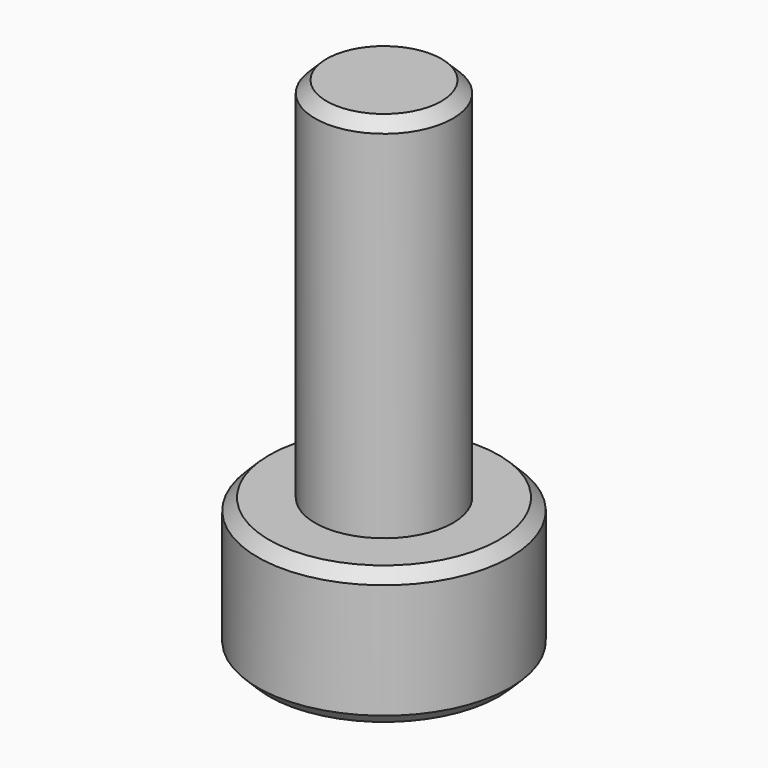
from build123d import *

# Parameters (mm, degrees)
F0_R     = 1.5
F1_DEPTH = 8
F2_R     = 2.75
F3_DEPTH = 3
F5_DEPTH = 1.3
F6_SIZE  = 0.25


with BuildPart() as f1:
    # F0 (on Top) → F1 (new body)
    with BuildSketch(Plane.XY):
        Circle(F0_R)
    extrude(amount=F1_DEPTH)

    # F2 (on Top) → F3 (join)
    with BuildSketch(Plane.XY):
        Circle(F2_R)
    extrude(amount=-F3_DEPTH)

    # F4 (on face) → F5 (cut)
    with BuildSketch(Plane(origin=(0, 0, -3), x_dir=(1, 0, 0), z_dir=(0, 0, -1))):
        Polygon((0.019386, -1.443245), (1.25958, -0.704834), (1.240194, 0.738412), (-0.019386, 1.443245), (-1.25958, 0.704834), (-1.240194, -0.738412), align=None)
    extrude(amount=-F5_DEPTH, mode=Mode.SUBTRACT)

    # F6
    f6_edges = [f1.edges().sort_by_distance(p)[0] for p in [
        (-2.75, 0, -3),
        (-2.75, 0, 0),
        (-1.5, 0, 8),
    ]]
    chamfer(f6_edges, length=F6_SIZE)


solid = f1.part
